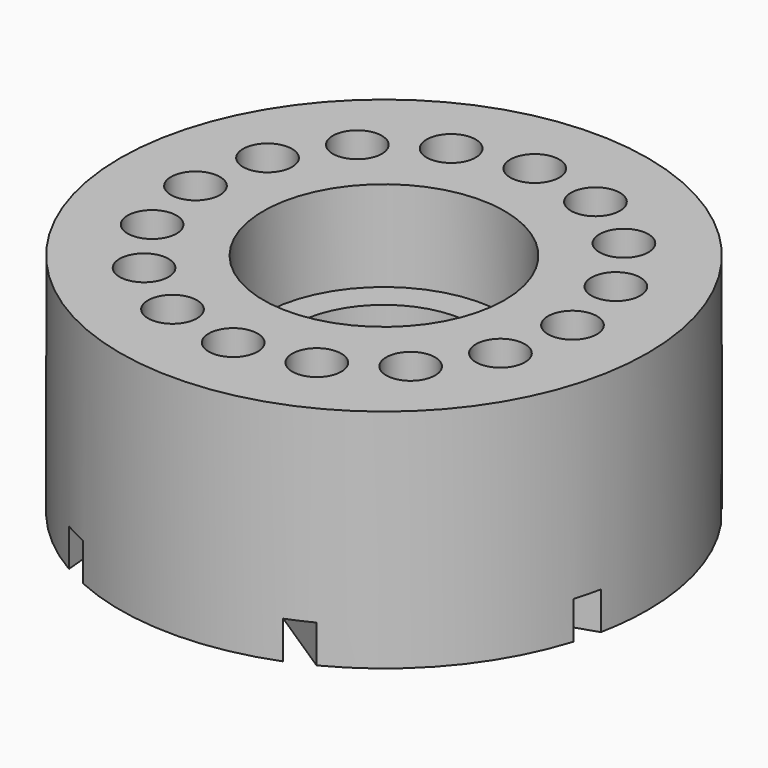
from build123d import *

# Parameters (mm, degrees)
SKETCH_R              = 35
PAD_DEPTH             = 30
SKETCH001_R           = 12
POCKET_DEPTH          = 30.001
SKETCH002_R           = 26
POCKET001_DEPTH       = 5
SKETCH003_R           = 3.25
POCKET002_DEPTH       = 15
POLARPATTERN_COUNT    = 16
SKETCH004_R           = 16
POCKET003_DEPTH       = 12
POCKET004_DEPTH       = 5
POLARPATTERN001_COUNT = 7


with BuildPart() as part:
    # Sketch → Pad (new body)
    with BuildSketch(Plane.XY):
        Circle(SKETCH_R)
    extrude(amount=PAD_DEPTH)

    # Sketch001 → Pocket (cut, through all)
    with BuildSketch(Plane(origin=(0, 0, 0), x_dir=(1, 0, 0), z_dir=(0, 0, -1))):
        Circle(SKETCH001_R)
    extrude(amount=-POCKET_DEPTH, mode=Mode.SUBTRACT)

    # Sketch002 → Pocket001 (cut)
    with BuildSketch(Plane(origin=(0, 0, 0), x_dir=(1, 0, 0), z_dir=(0, 0, -1))):
        Circle(SKETCH002_R)
    extrude(amount=-POCKET001_DEPTH, mode=Mode.SUBTRACT)

    # Sketch003 → Pocket002 (cut)
    with BuildSketch(Plane.XY.offset(30)):
        with Locations((0, 25)):
            Circle(SKETCH003_R)
    pocket002 = extrude(amount=-POCKET002_DEPTH, mode=Mode.SUBTRACT)

    # PolarPattern: Pocket002 ×16 about axis
    polarpattern_axis = Axis((0, 0, 30), (0, 0, 1))
    for i in range(1, POLARPATTERN_COUNT):
        add(pocket002.rotate(polarpattern_axis, i * 360 / POLARPATTERN_COUNT), mode=Mode.SUBTRACT)

    # Sketch004 → Pocket003 (cut)
    with BuildSketch(Plane.XY.offset(30)):
        Circle(SKETCH004_R)
    extrude(amount=-POCKET003_DEPTH, mode=Mode.SUBTRACT)

    # Sketch005 → Pocket004 (cut)
    with BuildSketch(Plane(origin=(0, 0, 0), x_dir=(1, 0, 0), z_dir=(0, 0, -1))):
        Polygon((19.471427, 37.015548), (21.112486, 34.504188), (-4.001108, 18.0936), (-5.642167, 20.604959), align=None)
    pocket004 = extrude(amount=-POCKET004_DEPTH, mode=Mode.SUBTRACT)

    # PolarPattern001: Pocket004 ×7 about axis
    polarpattern001_axis = Axis((0, 0, 0), (0, 0, -1))
    for i in range(1, POLARPATTERN001_COUNT):
        add(pocket004.rotate(polarpattern001_axis, i * 360 / POLARPATTERN001_COUNT), mode=Mode.SUBTRACT)


solid = part.part
